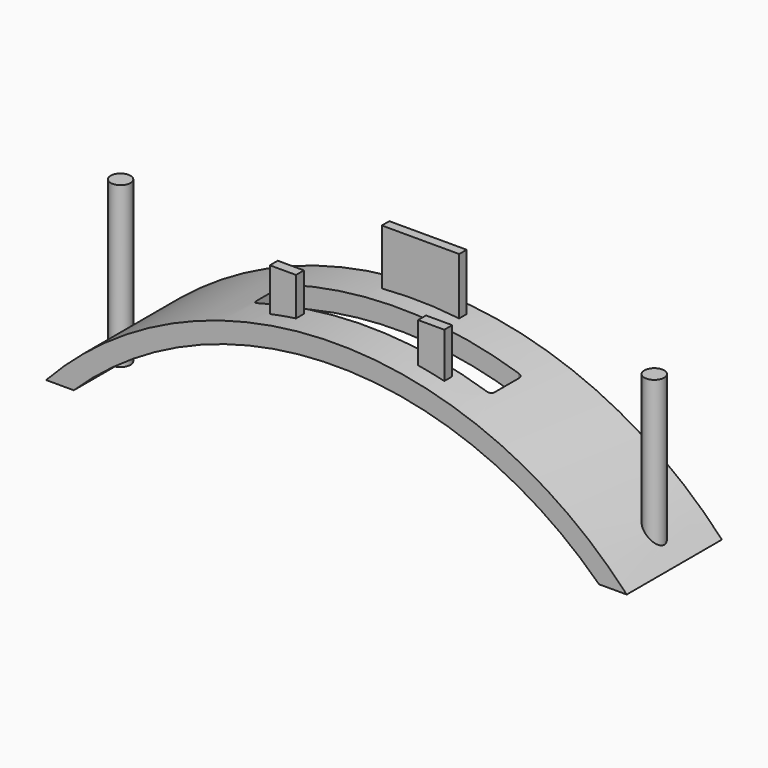
from build123d import *

# Parameters (mm, degrees)
F1_DEPTH  = 38.1
F3_DEPTH  = 63.5
F4_R      = 3.175
F6_DEPTH  = 69.85
F6_FACE_R = 3.175
F7_DEPTH  = 18.542
F5_W      = 24.768822
F5_H      = 2.994034
F8_DEPTH  = 76.2
F8_FACE_W = 24.768822
F8_FACE_H = 2.994034
F9_DEPTH  = 53.34
F10_W     = 222.162876
F10_H     = 22.374636
F11_DEPTH = 50.8
F12_W     = 8.382
F12_H     = 3.175
F13_DEPTH = 69.85
F14_DEPTH = 50.546


with BuildPart() as f1:
    # F0 (on Front) → F1 (new body)
    with BuildSketch(Plane.XZ):
        with BuildLine():
            ThreePointArc((-32.499379, 0), (67.068651, 52.513153), (166.636681, 0))
            Line((166.636681, 0), (171.877104, 3.58615))
            ThreePointArc((171.877104, 3.58615), (67.068651, 58.863153), (-37.739801, 3.58615))
            Line((-37.739801, 3.58615), (-32.499379, 0))
        make_face()
    extrude(amount=-F1_DEPTH)

    # F2 (on Top) → F3 (cut)
    with BuildSketch(Plane.XY):
        with BuildLine():
            Line((105.508113, 24.880887), (31.848113, 24.880887))
            ThreePointArc((31.848113, 24.880887), (30.950088, 24.508913), (30.578113, 23.610887))
            Line((30.578113, 23.610887), (30.578113, 13.450887))
            ThreePointArc((30.578113, 13.450887), (30.950088, 12.552862), (31.848113, 12.180887))
            Line((31.848113, 12.180887), (105.508113, 12.180887))
            ThreePointArc((105.508113, 12.180887), (106.406139, 12.552862), (106.778113, 13.450887))
            Line((106.778113, 13.450887), (106.778113, 23.610887))
            ThreePointArc((106.778113, 23.610887), (106.406139, 24.508913), (105.508113, 24.880887))
        make_face()
    extrude(amount=F3_DEPTH, mode=Mode.SUBTRACT)

    # F4 (on Top) → F6 (join)
    with BuildSketch(Plane.XY):
        with Locations((-17.501814, 19.295603)):
            Circle(F4_R)
        with Locations((152.629465, 20.332575)):
            Circle(F4_R)
    extrude(amount=F6_DEPTH)

    # F6_face (on face) → F7 (cut)
    with BuildSketch(Plane(origin=(152.629465, 20.332575, 0), x_dir=(1, 0, 0), z_dir=(0, 0, -1))):
        Circle(F6_FACE_R)
        with Locations((-170.131279, 1.036972)):
            Circle(F6_FACE_R)
    extrude(amount=-F7_DEPTH, mode=Mode.SUBTRACT)

    # F5 (on Top) → F8 (join)
    with BuildSketch(Plane.XY):
        with Locations((69.149714, 32.560246)):
            Rectangle(F5_W, F5_H)
    extrude(amount=F8_DEPTH)

    # F8_face (on face) → F9 (cut)
    with BuildSketch(Plane(origin=(69.149714, 32.560246, 0), x_dir=(1, 0, 0), z_dir=(0, 0, -1))):
        Rectangle(F8_FACE_W, F8_FACE_H)
    extrude(amount=-F9_DEPTH, mode=Mode.SUBTRACT)

    # F10 (on Front) → F11 (cut)
    with BuildSketch(Plane.XZ):
        with Locations((66.641135, 7.16073)):
            Rectangle(F10_W, F10_H)
    extrude(amount=-F11_DEPTH, mode=Mode.SUBTRACT)

    # F12 (on Top) → F13 (join)
    with BuildSketch(Plane.XY):
        with Locations((44.929113, 7.840642)):
            Rectangle(F12_W, F12_H)
        with Locations((92.427113, 7.840642)):
            Rectangle(F12_W, F12_H)
    extrude(amount=F13_DEPTH)

    # F12 (on Top) → F14 (cut)
    with BuildSketch(Plane.XY):
        with Locations((44.929113, 7.840642)):
            Rectangle(F12_W, F12_H)
        with Locations((92.427113, 7.840642)):
            Rectangle(F12_W, F12_H)
    extrude(amount=F14_DEPTH, mode=Mode.SUBTRACT)


solid = f1.part
